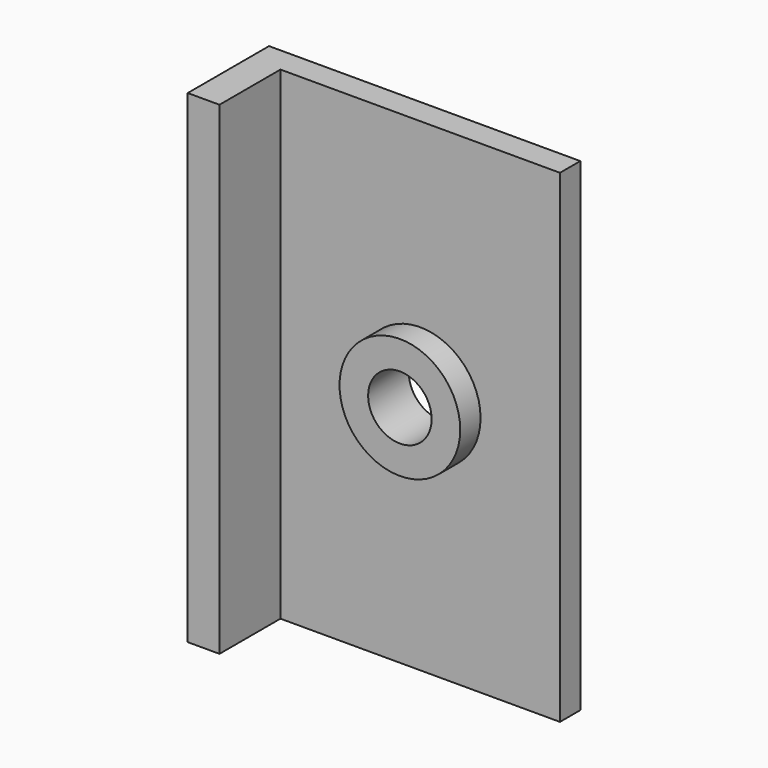
from build123d import *

# Parameters (mm, degrees)
F1_DEPTH = 8
F2_W     = 16
F2_H     = 76.1
F3_DEPTH = 5
F4_W     = 44
F4_H     = 76.1
F4_R     = 9.5
F5_DEPTH = 4


with BuildPart() as f1:
    # F0 (on Front) → F1 (new body)
    with BuildSketch(Plane.XZ):
        with BuildLine():
            ThreePointArc((-54.871013, -5.46831), (-59.871013, -0.46831), (-64.871013, -5.46831))
            ThreePointArc((-64.871013, -5.46831), (-59.871013, -10.46831), (-54.871013, -5.46831))
        make_face()
        Polygon((-37.871013, 32.58169), (-81.871013, 32.58169), (-81.871013, -5.46831), (-81.871013, -43.51831), (-37.871013, -43.51831), align=None)
        with BuildLine():
            ThreePointArc((-54.871013, -5.46831), (-59.871013, -10.46831), (-64.871013, -5.46831))
            ThreePointArc((-64.871013, -5.46831), (-59.871013, -0.46831), (-54.871013, -5.46831))
        make_face(mode=Mode.SUBTRACT)
    extrude(amount=F1_DEPTH)

    # F2 (on face) → F3 (join)
    with BuildSketch(Plane(origin=(-81.871013, 0, 0), x_dir=(0, -1, 0), z_dir=(-1, 0, 0))):
        with Locations((8, -5.46831)):
            Rectangle(F2_W, F2_H)
    extrude(amount=F3_DEPTH)

    # F4 (on face) → F5 (cut)
    with BuildSketch(Plane.XZ.offset(8)):
        with Locations((-59.871013, -5.46831)):
            Rectangle(F4_W, F4_H)
        with Locations((-59.871013, -5.46831)):
            Circle(F4_R, mode=Mode.SUBTRACT)
    extrude(amount=-F5_DEPTH, mode=Mode.SUBTRACT)


solid = f1.part
